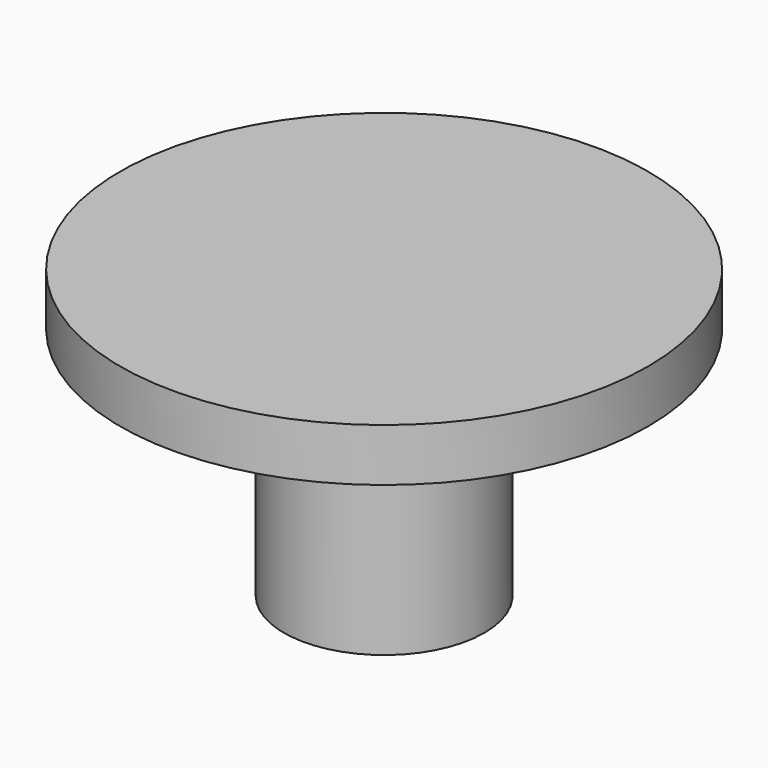
from build123d import *

# Parameters (mm, degrees)
F0_R     = 3.8
F1_DEPTH = 8.9
F2_R     = 10
F3_DEPTH = 2
F4_R     = 2.5
F5_DEPTH = 8.3
F6_R     = 5.65
F7_DEPTH = 1.4


with BuildPart() as f1:
    # F0 (on Top) → F1 (new body)
    with BuildSketch(Plane.XY):
        Circle(F0_R)
    extrude(amount=F1_DEPTH)

    # F2 (on face) → F3 (join)
    with BuildSketch(Plane.XY.offset(8.9)):
        Circle(F2_R)
    extrude(amount=F3_DEPTH)

    # F4 (on face) → F5 (cut)
    with BuildSketch(Plane(origin=(0, 0, 0), x_dir=(1, 0, 0), z_dir=(0, 0, -1))):
        Circle(F4_R)
    extrude(amount=-F5_DEPTH, mode=Mode.SUBTRACT)

    # F6 (on face) → F7 (join)
    with BuildSketch(Plane(origin=(0, 0, 8.9), x_dir=(1, 0, 0), z_dir=(0, 0, -1))):
        Circle(F6_R)
    extrude(amount=F7_DEPTH)


solid = f1.part
